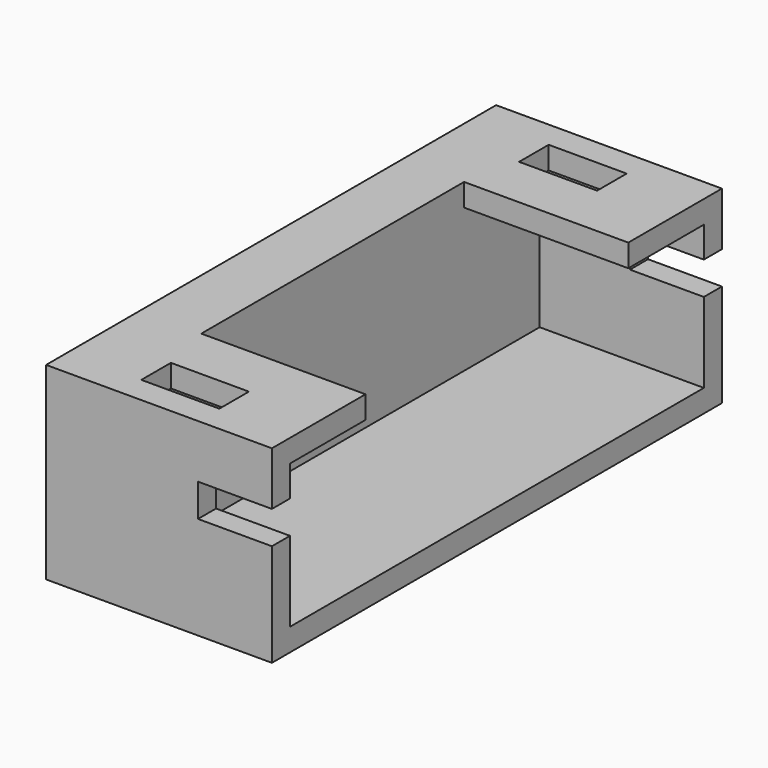
from build123d import *

# Parameters (mm, degrees)
SKETCH016_W     = 5.5
SKETCH016_H     = 13.7
PAD006_DEPTH    = 4.6
POCKET007_DEPTH = 4
SKETCH018_W     = 13.7
SKETCH018_H     = 0.8
POCKET008_DEPTH = 1.8
SKETCH019_W     = 1.9
SKETCH019_H     = 0.9
POCKET009_DEPTH = 1


with BuildPart() as part:
    # Sketch016 → Pad006 (new body)
    with BuildSketch(Plane.XY):
        with Locations((-2.75, 0)):
            Rectangle(SKETCH016_W, SKETCH016_H)
    extrude(amount=PAD006_DEPTH)

    # Sketch017 → Pocket007 (cut)
    with BuildSketch(Plane.YZ):
        Polygon((-4, 4.6), (-4, 4.05), (-6.3, 4.05), (-6.3, 0.55), (6.3, 0.55), (6.3, 4.05), (4, 4.05), (4, 4.6), align=None)
    extrude(amount=-POCKET007_DEPTH, mode=Mode.SUBTRACT)

    # Sketch018 → Pocket008 (cut)
    with BuildSketch(Plane.YZ):
        with Locations((0, 2.9)):
            Rectangle(SKETCH018_W, SKETCH018_H)
    extrude(amount=-POCKET008_DEPTH, mode=Mode.SUBTRACT)

    # Sketch019 → Pocket009 (cut)
    with BuildSketch(Plane.XY.offset(4.6)):
        with Locations((-2.75, 5.75)):
            Rectangle(SKETCH019_W, SKETCH019_H)
        with Locations((-2.75, -5.75)):
            Rectangle(SKETCH019_W, SKETCH019_H)
    extrude(amount=-POCKET009_DEPTH, mode=Mode.SUBTRACT)


with BuildPart() as part_1:
    # Body008 placement: moved
    add(part.part.moved(Location((26, 0, -35.05))))


solid = part_1.part
